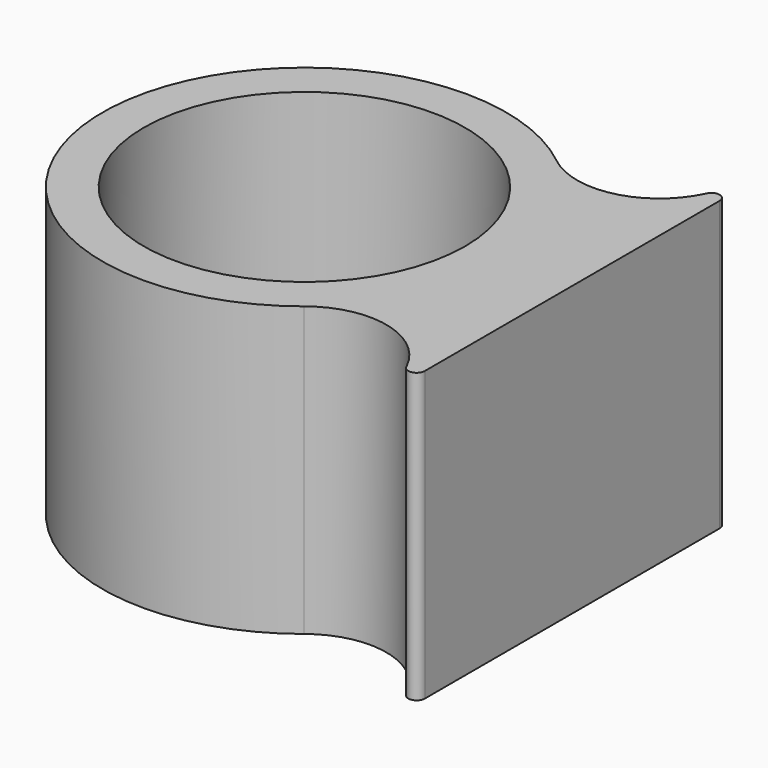
from build123d import *

# Parameters (mm, degrees)
F0_R     = 9.75
F1_DEPTH = 17.5
F2_R     = 5
F3_R     = 0.5


with BuildPart() as f1:
    # F0 (on Top) → F1 (new body)
    with BuildSketch(Plane.XY):
        with BuildLine():
            Line((16.25, 13.347993), (11.627468, 3.85545))
            ThreePointArc((11.627468, 3.85545), (-12.25, 0), (11.627468, -3.85545))
            Line((11.627468, -3.85545), (16.25, -13.347993))
            Line((16.25, -13.347993), (16.25, 13.347993))
        make_face()
        Circle(F0_R, mode=Mode.SUBTRACT)
    extrude(amount=F1_DEPTH)

    # F2
    f2_edges = [f1.edges().sort_by_distance(p)[0] for p in [
        (11.627468, -3.85545, 8.75),
        (11.627468, 3.85545, 8.75),
    ]]
    fillet(f2_edges, radius=F2_R)

    # F3
    f3_edges = [f1.edges().sort_by_distance(p)[0] for p in [
        (16.25, 13.347993, 8.75),
        (16.25, -13.347993, 8.75),
    ]]
    fillet(f3_edges, radius=F3_R)


solid = f1.part
